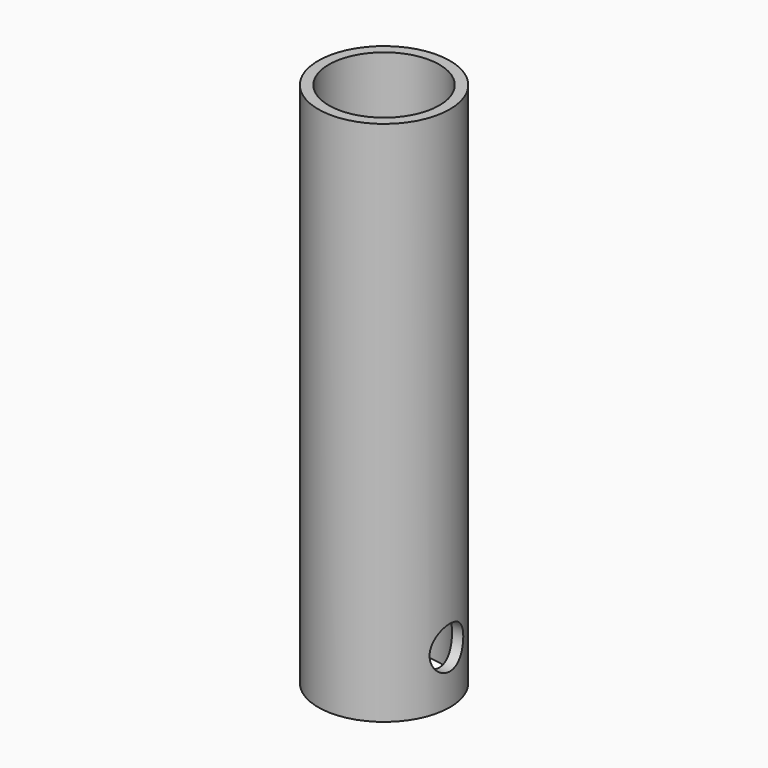
from build123d import *

# Parameters (mm, degrees)
F0_R     = 12.5
F1_DEPTH = 100
F2_T     = -2
F5_D     = 8


with BuildPart() as f1:
    # F0 (on Top) → F1 (new body)
    with BuildSketch(Plane.XY):
        Circle(F0_R)
    extrude(amount=F1_DEPTH)

    # F2
    f2_openings = [f1.faces().sort_by_distance(p)[0] for p in [
        (0, 0, 100),
        (0, 0, 0),
    ]]
    offset(amount=F2_T, openings=f2_openings)

    # F5 (through all)
    with Locations(Plane(origin=(-30, 0, 0), x_dir=(0, 1, 0), z_dir=(-1, 0, 0))):
        with Locations((0, -10)):
            Hole(F5_D / 2)


solid = f1.part
